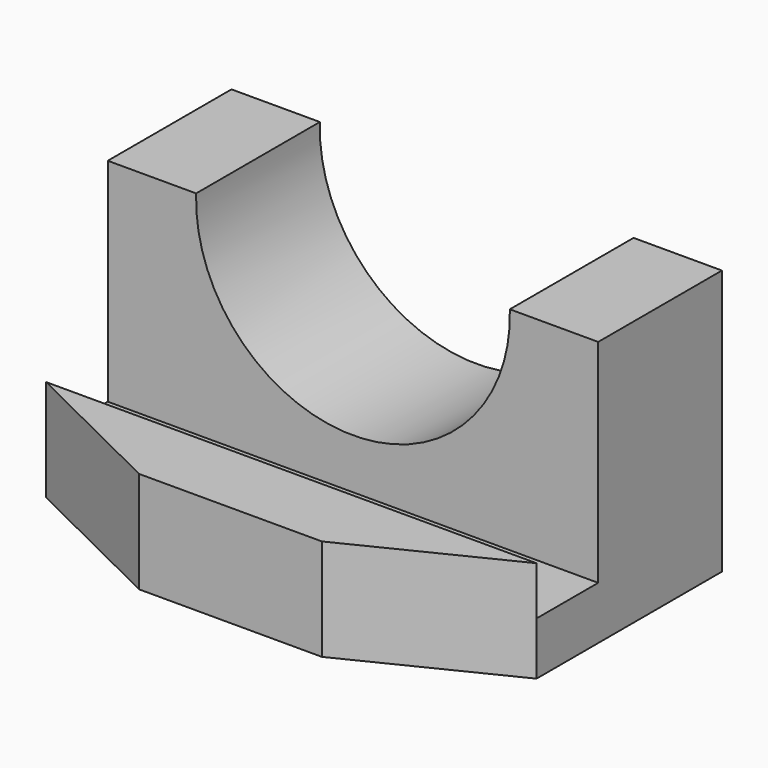
from build123d import *

# Parameters (mm, degrees)
F1_DEPTH      = 10
F1_DEPTH_BACK = 25
F3_DEPTH      = 111
F5_DEPTH      = 60.001


with BuildPart() as f1:
    # F0 (on Front) → F1 (new body, two sides)
    with BuildSketch(Plane.XZ) as f1_sk:
        with BuildLine():
            Line((0, 60), (0, 0))
            Line((0, 0), (111, 0))
            Line((111, 0), (111, 60))
            Line((111, 60), (91, 60))
            ThreePointArc((91, 60), (55.5, 23.341768), (20, 60))
            Line((20, 60), (0, 60))
        make_face()
    extrude(amount=F1_DEPTH)
    extrude(f1_sk.sketch, amount=-F1_DEPTH_BACK)

    # F2 (on Right) → F3 (join)
    with BuildSketch(Plane.YZ):
        Polygon((0, 12), (-10.259873, 12), (-27.44799, 12), (-27.44799, 23), (-44.633665, 23), (-44.633665, 0), (-27.168316, 0), (0, 0), align=None)
    extrude(amount=F3_DEPTH)

    # F4 (on Top) → F5 (cut, through all)
    with BuildSketch(Plane.XY):
        Polygon((111, -27.44799), (76.174157, -44.633665), (111, -44.633665), align=None)
        Polygon((34.825843, -44.633665), (0, -27.44799), (0, -44.633665), align=None)
    extrude(amount=F5_DEPTH, mode=Mode.SUBTRACT)


solid = f1.part
